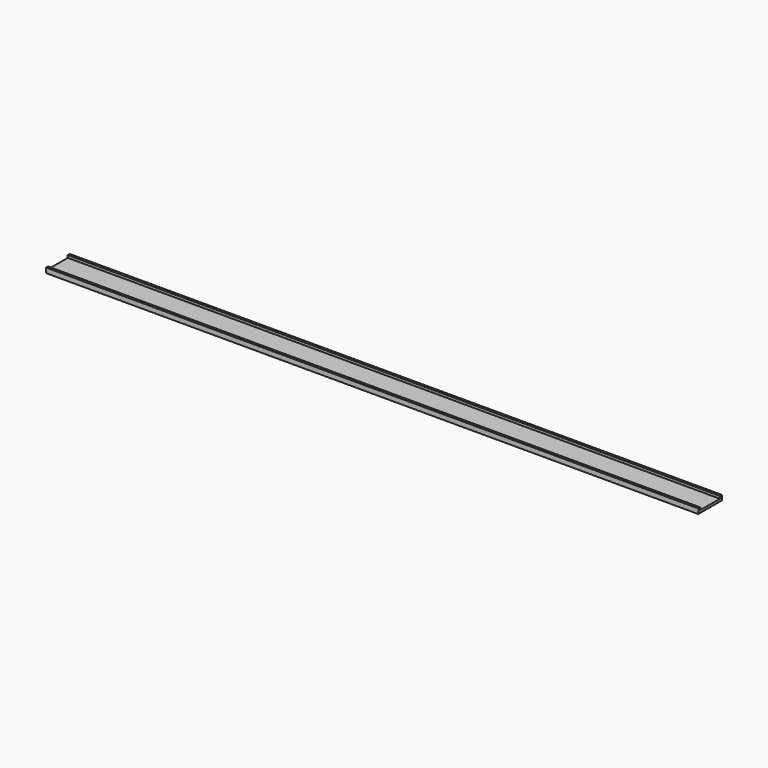
from build123d import *

# Parameters (mm, degrees)
RECTANGLE008_W   = 265
RECTANGLE008_H   = 1
EXTRUDE011_DEPTH = 1
RECTANGLE007_W   = 265
RECTANGLE007_H   = 1
EXTRUDE012_DEPTH = 1
RECTANGLE009_W   = 265
RECTANGLE009_H   = 12
EXTRUDE010_DEPTH = 1


with BuildPart() as h_bottom_lip:
    # Rectangle008 → Extrude011 (new body)
    with BuildSketch(Plane.XY.offset(1)):
        with Locations((132.5, 0.5)):
            Rectangle(RECTANGLE008_W, RECTANGLE008_H)
    extrude(amount=EXTRUDE011_DEPTH)


with BuildPart() as h_top_lip:
    # Rectangle007 → Extrude012 (new body)
    with BuildSketch(Plane(origin=(0, 11, 1), x_dir=(1, 0, 0), z_dir=(0, 0, 1))):
        with Locations((132.5, 0.5)):
            Rectangle(RECTANGLE007_W, RECTANGLE007_H)
    extrude(amount=EXTRUDE012_DEPTH)


with BuildPart() as h_holder:
    # Rectangle009 → Extrude010 (new body)
    with BuildSketch(Plane.XY):
        with Locations((132.5, 6)):
            Rectangle(RECTANGLE009_W, RECTANGLE009_H)
    extrude(amount=EXTRUDE010_DEPTH)

    # Fusion005: union h_bottom_lip, h_top_lip
    add(h_bottom_lip.part)
    add(h_top_lip.part)


solid = h_holder.part
